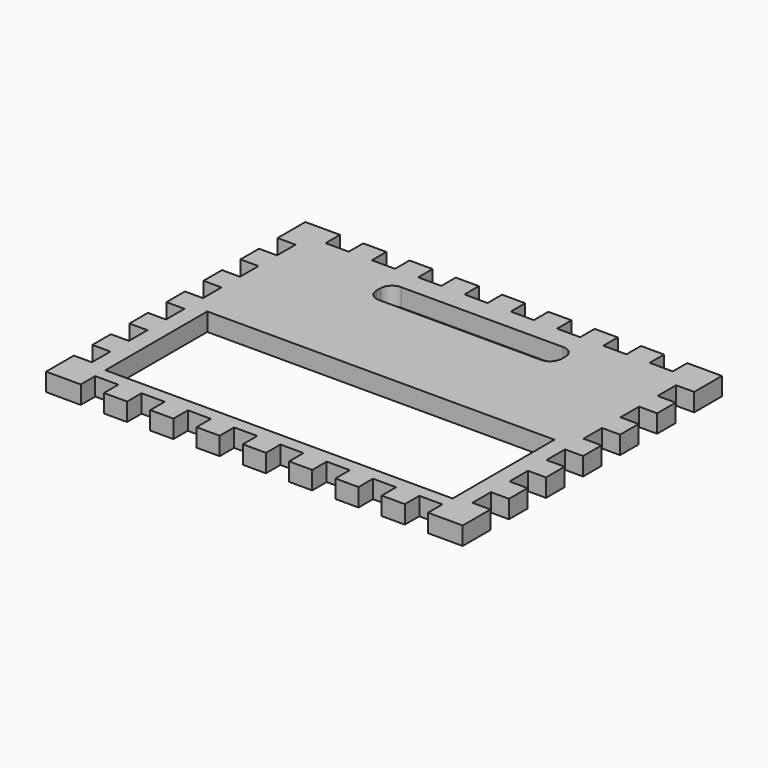
from build123d import *

# Parameters (mm, degrees)
F0_W     = 190.5
F0_H     = 69.85
F1_DEPTH = 9.906
F2_DEPTH = 9.906


with BuildPart() as f1:
    # F0 (on Top) → F1 (new body)
    with BuildSketch(Plane.XY):
        Polygon((19.05, 0), (0, 0), (0, -19.05), (9.906, -19.05), (9.906, -31.75), (0, -31.75), (0, -44.45), (9.906, -44.45), (9.906, -57.15), (0, -57.15), (0, -69.85), (9.906, -69.85), (9.906, -82.55), (0, -82.55), (0, -95.25), (9.906, -95.25), (9.906, -107.95), (0, -107.95), (0, -120.65), (9.906, -120.65), (9.906, -133.35), (0, -133.35), (0, -146.05), (9.906, -146.05), (9.906, -158.75), (0, -158.75), (0, -177.8), (19.05, -177.8), (19.05, -167.894), (31.75, -167.894), (31.75, -177.8), (44.45, -177.8), (44.45, -167.894), (57.15, -167.894), (57.15, -177.8), (69.85, -177.8), (69.85, -167.894), (82.55, -167.894), (82.55, -177.8), (95.25, -177.8), (95.25, -167.894), (107.95, -167.894), (107.95, -177.8), (120.65, -177.8), (120.65, -167.894), (133.35, -167.894), (133.35, -177.8), (146.05, -177.8), (146.05, -167.894), (158.75, -167.894), (158.75, -177.8), (171.45, -177.8), (171.45, -167.894), (184.15, -167.894), (184.15, -177.8), (196.85, -177.8), (196.85, -167.894), (209.55, -167.894), (209.55, -177.8), (228.6, -177.8), (228.6, -158.75), (218.694, -158.75), (218.694, -146.05), (228.6, -146.05), (228.6, -133.35), (218.694, -133.35), (218.694, -120.65), (228.6, -120.65), (228.6, -107.95), (218.694, -107.95), (218.694, -95.25), (228.6, -95.25), (228.6, -82.55), (218.694, -82.55), (218.694, -69.85), (228.6, -69.85), (228.6, -57.15), (218.694, -57.15), (218.694, -44.45), (228.6, -44.45), (228.6, -31.75), (218.694, -31.75), (218.694, -19.05), (228.6, -19.05), (228.6, 0), (209.55, 0), (209.55, -9.906), (196.85, -9.906), (196.85, 0), (184.15, 0), (184.15, -9.906), (171.45, -9.906), (171.45, 0), (158.75, 0), (158.75, -9.906), (146.05, -9.906), (146.05, 0), (133.35, 0), (133.35, -9.906), (120.65, -9.906), (120.65, 0), (107.95, 0), (107.95, -9.906), (95.25, -9.906), (95.25, 0), (82.55, 0), (82.55, -9.906), (69.85, -9.906), (69.85, 0), (57.15, 0), (57.15, -9.906), (44.45, -9.906), (44.45, 0), (31.75, 0), (31.75, -9.906), (19.05, -9.906), align=None)
        with Locations((114.3, -125.984)):
            Rectangle(F0_W, F0_H, mode=Mode.SUBTRACT)
        with BuildLine():
            ThreePointArc((63.5, -27.94), (65.359872, -23.449872), (69.85, -21.59))
            Line((69.85, -21.59), (158.75, -21.59))
            ThreePointArc((158.75, -21.59), (163.240128, -23.449872), (165.1, -27.94))
            Line((165.1, -27.94), (165.1, -30.48))
            ThreePointArc((165.1, -30.48), (163.240128, -34.970128), (158.75, -36.83))
            Line((158.75, -36.83), (69.85, -36.83))
            ThreePointArc((69.85, -36.83), (65.359872, -34.970128), (63.5, -30.48))
            Line((63.5, -30.48), (63.5, -27.94))
        make_face(mode=Mode.SUBTRACT)
    extrude(amount=F1_DEPTH)


with BuildPart() as f2:
    # F0 (on Top) → F2 (new body)
    with BuildSketch(Plane.XY):
        Polygon((19.05, 0), (0, 0), (0, -19.05), (9.906, -19.05), (9.906, -31.75), (0, -31.75), (0, -44.45), (9.906, -44.45), (9.906, -57.15), (0, -57.15), (0, -69.85), (9.906, -69.85), (9.906, -82.55), (0, -82.55), (0, -95.25), (9.906, -95.25), (9.906, -107.95), (0, -107.95), (0, -120.65), (9.906, -120.65), (9.906, -133.35), (0, -133.35), (0, -146.05), (9.906, -146.05), (9.906, -158.75), (0, -158.75), (0, -177.8), (19.05, -177.8), (19.05, -167.894), (31.75, -167.894), (31.75, -177.8), (44.45, -177.8), (44.45, -167.894), (57.15, -167.894), (57.15, -177.8), (69.85, -177.8), (69.85, -167.894), (82.55, -167.894), (82.55, -177.8), (95.25, -177.8), (95.25, -167.894), (107.95, -167.894), (107.95, -177.8), (120.65, -177.8), (120.65, -167.894), (133.35, -167.894), (133.35, -177.8), (146.05, -177.8), (146.05, -167.894), (158.75, -167.894), (158.75, -177.8), (171.45, -177.8), (171.45, -167.894), (184.15, -167.894), (184.15, -177.8), (196.85, -177.8), (196.85, -167.894), (209.55, -167.894), (209.55, -177.8), (228.6, -177.8), (228.6, -158.75), (218.694, -158.75), (218.694, -146.05), (228.6, -146.05), (228.6, -133.35), (218.694, -133.35), (218.694, -120.65), (228.6, -120.65), (228.6, -107.95), (218.694, -107.95), (218.694, -95.25), (228.6, -95.25), (228.6, -82.55), (218.694, -82.55), (218.694, -69.85), (228.6, -69.85), (228.6, -57.15), (218.694, -57.15), (218.694, -44.45), (228.6, -44.45), (228.6, -31.75), (218.694, -31.75), (218.694, -19.05), (228.6, -19.05), (228.6, 0), (209.55, 0), (209.55, -9.906), (196.85, -9.906), (196.85, 0), (184.15, 0), (184.15, -9.906), (171.45, -9.906), (171.45, 0), (158.75, 0), (158.75, -9.906), (146.05, -9.906), (146.05, 0), (133.35, 0), (133.35, -9.906), (120.65, -9.906), (120.65, 0), (107.95, 0), (107.95, -9.906), (95.25, -9.906), (95.25, 0), (82.55, 0), (82.55, -9.906), (69.85, -9.906), (69.85, 0), (57.15, 0), (57.15, -9.906), (44.45, -9.906), (44.45, 0), (31.75, 0), (31.75, -9.906), (19.05, -9.906), align=None)
        with Locations((114.3, -125.984)):
            Rectangle(F0_W, F0_H, mode=Mode.SUBTRACT)
        with BuildLine():
            ThreePointArc((63.5, -27.94), (65.359872, -23.449872), (69.85, -21.59))
            Line((69.85, -21.59), (158.75, -21.59))
            ThreePointArc((158.75, -21.59), (163.240128, -23.449872), (165.1, -27.94))
            Line((165.1, -27.94), (165.1, -30.48))
            ThreePointArc((165.1, -30.48), (163.240128, -34.970128), (158.75, -36.83))
            Line((158.75, -36.83), (69.85, -36.83))
            ThreePointArc((69.85, -36.83), (65.359872, -34.970128), (63.5, -30.48))
            Line((63.5, -30.48), (63.5, -27.94))
        make_face(mode=Mode.SUBTRACT)
    extrude(amount=F2_DEPTH)


solid = Compound([f1.part, f2.part])
